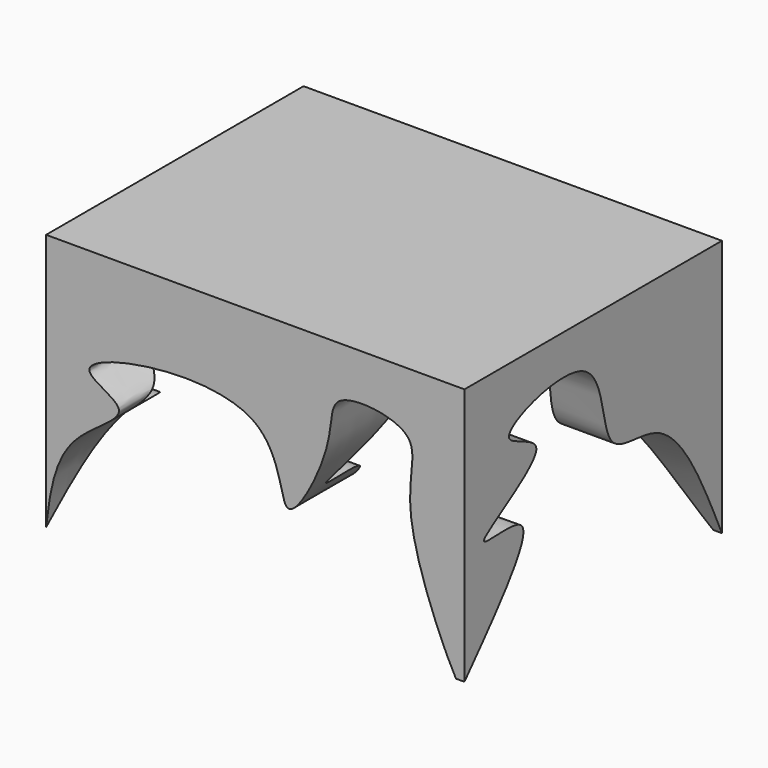
from build123d import *

# Parameters (mm, degrees)
F1_DEPTH = 50
F3_DEPTH = 65.0010001


with BuildPart() as f1:
    # F0 (on Front) → F1 (new body)
    with BuildSketch(Plane.XZ):
        with BuildLine():
            Line((0, 40), (0, 0))
            add(Edge.make_bspline(
                [(0, 0), (0.5988076248, 4.9572893842), (1.6809695481, 13.9160761322), (15.6656716098, 19.8851508058), (-1.7405073778, 24.8896484138), (37.5794989543, 32.0061117713), (35.6848633711, 8.064477241), (45.290237281, 26.0372845212), (43.3198137411, 33.952204301), (59.8637094797, 32.1411125002), (53.8434204797, 21.8916593859), (61.4589860717, 3.9855154962), (63.6808863365, 0)],
                knots=[0, 0, 0, 0, 0.1032718331, 0.1866323021, 0.2529364634, 0.3908290764, 0.4844312764, 0.5808606544, 0.6529159761, 0.7399856215, 0.8305065573, 0.9338895358, 0.9338895358, 0.9338895358, 0.9338895358], degree=3))
            Line((63.6808863365, 0), (65, 0))
            Line((65, 0), (65, 40))
            Line((65, 40), (0, 40))
        make_face()
    extrude(amount=F1_DEPTH)

    # F2 (on face) → F3 (cut, through all)
    with BuildSketch(Plane.YZ.offset(65)):
        with BuildLine():
            add(Edge.make_bspline(
                [(-50, 0), (-43.1269411344, 7.7418078953), (-32.2245493871, 20.0222530591), (-53.4456852072, 15.3956418261), (-28.9228177214, 27.0136662465), (-48.6415892446, 29.5920923824), (-21.6862793586, 38.5542761206), (-24.2513655336, 17.898015096), (-9.7724079054, 21.8938716075), (-3.7020350279, 8.2939517436), (0, 0)],
                knots=[0, 0, 0, 0, 0.1573854277, 0.2496526833, 0.3769090312, 0.466102582, 0.6009960764, 0.7269894145, 0.8335036791, 1, 1, 1, 1], degree=3))
            Line((-50, 0), (0, 0))
        make_face()
    extrude(amount=-F3_DEPTH, mode=Mode.SUBTRACT)


solid = f1.part
